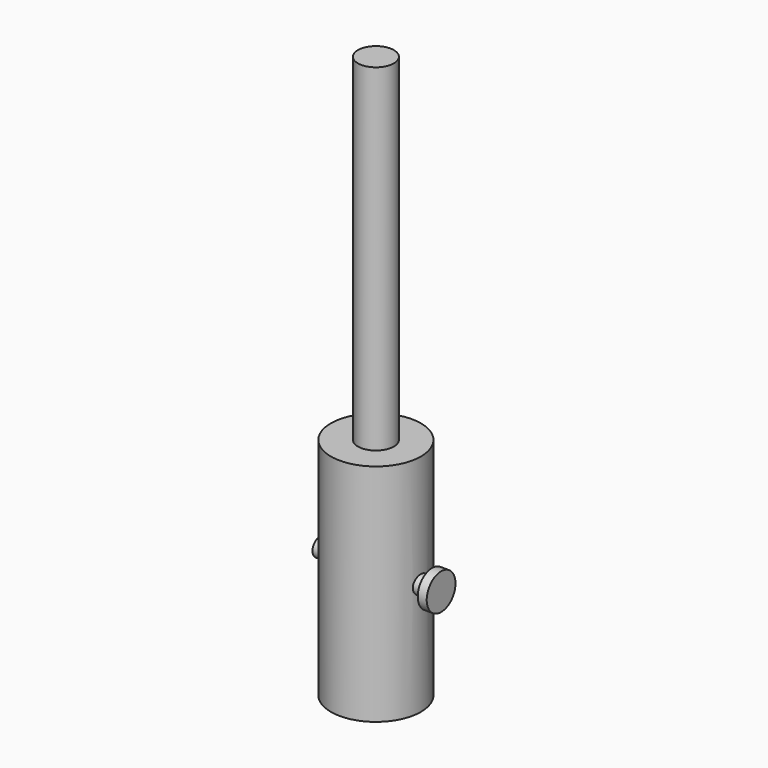
from build123d import *

# Parameters (mm, degrees)
F0_R     = 10
F0_R_2   = 4
F1_DEPTH = 25
F2_R     = 2
F3_DEPTH = 12.5
F5_START = 12.5
F4_R     = 4
F5_DEPTH = 2
F7_START = 15
F6_R     = 4
F7_DEPTH = 85


with BuildPart() as f1:
    # F0 (on Top) → F1 (new body, symmetric)
    with BuildSketch(Plane.XY):
        Circle(F0_R)
        Circle(F0_R_2, mode=Mode.SUBTRACT)
    extrude(amount=F1_DEPTH, both=True)

    # F2 (on Right) → F3 (join, symmetric)
    with BuildSketch(Plane.YZ):
        Circle(F2_R)
    extrude(amount=F3_DEPTH, both=True)

    # F4 (on Right) → F5 (join)
    with BuildSketch(Plane.YZ.offset(F5_START)):
        Circle(F4_R)
    extrude(amount=F5_DEPTH)

    # F6 (on Top) → F7 (join)
    with BuildSketch(Plane.XY.offset(F7_START)):
        Circle(F6_R)
    extrude(amount=F7_DEPTH)


solid = f1.part
